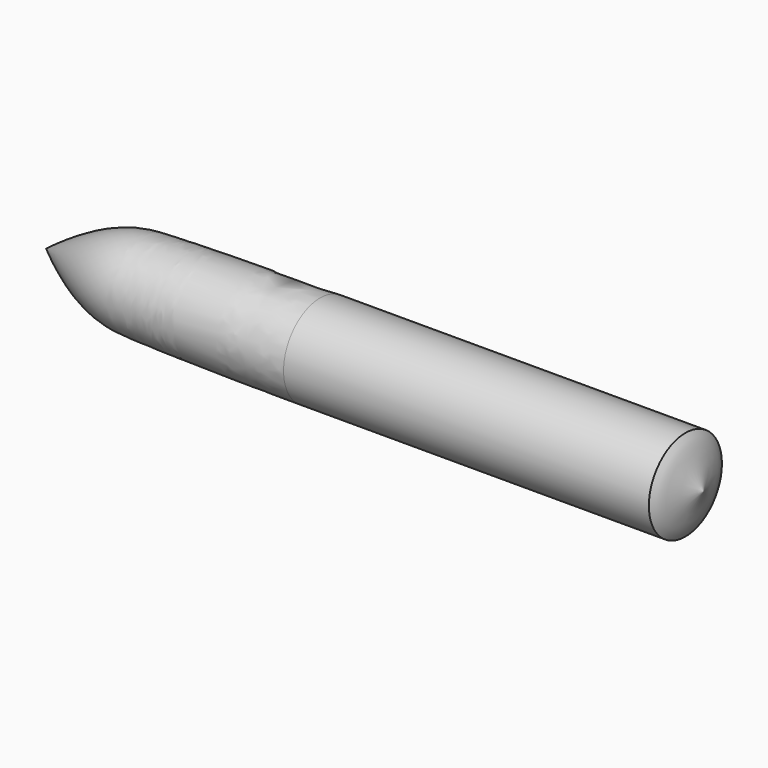
from build123d import *


with BuildPart() as part:
    # Sketch → Revolution (revolve)
    with BuildSketch(Plane.XY):
        with BuildLine():
            Line((-200, 0), (200, 0))
            Line((200, 0), (220, 0))
            add(Edge.make_bspline(
                [(200, 50), (204, 45.169504), (208, 33.508513), (212, 19.262769), (216, 6.678017), (220, 0)],
                knots=[0, 0, 0, 0, 0.333333, 0.666667, 1, 1, 1, 1], degree=3))
            Line((200, 50), (-200, 50))
            add(Edge.make_bspline(
                [(-500, 0), (-440, 45.144023), (-380, 47.817625), (-320, 49.135789), (-260, 49.796306), (-200, 50)],
                knots=[0, 0, 0, 0, 0.333333, 0.666667, 1, 1, 1, 1], degree=3))
            Line((-500, 0), (-200, 0))
        make_face()
    revolve(axis=Axis((0, 0, 0), (1, 0, 0)))


solid = part.part
